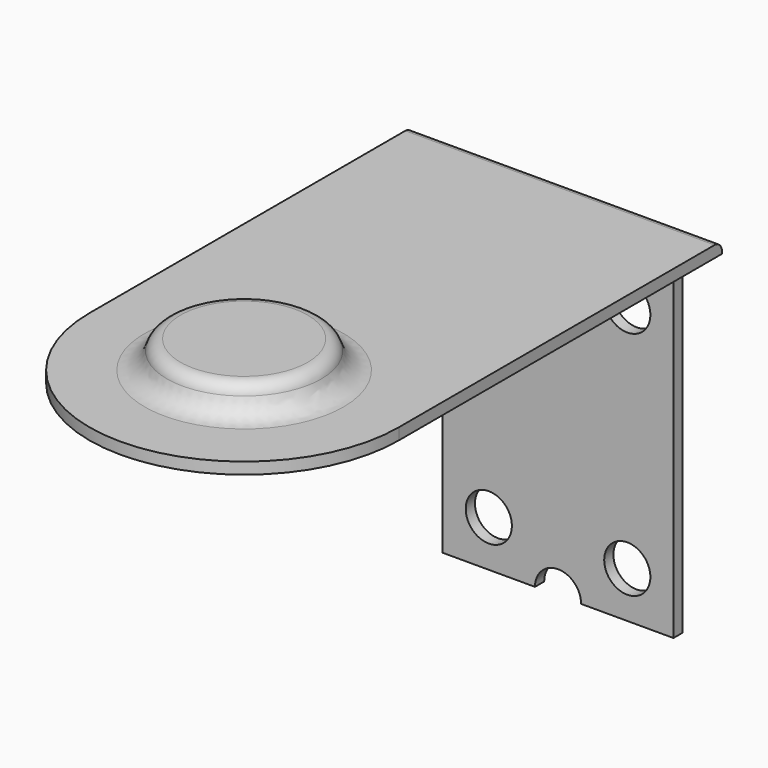
from build123d import *

# Parameters (mm, degrees)
PAD_DEPTH       = 0.25
SKETCH001_R     = 1.675
POCKET_DEPTH    = 5
SKETCH002_R     = 1.68
PAD001_DEPTH    = 0.85
SKETCH003_R     = 1.5
POCKET001_DEPTH = 0.75
FILLET_R        = 0.3
FILLET001_R     = 0.5
FILLET002_R     = 0.5
SKETCH004_W     = 0.25
SKETCH004_H     = 7.75
PAD002_DEPTH    = 2.5
SKETCH005_R     = 0.5
POCKET002_DEPTH = 5
FILLET003_R     = 0.2
PAD003_DEPTH    = 0.25


with BuildPart() as part:
    # Sketch → Pad (new body)
    with BuildSketch(Plane.XY):
        with BuildLine():
            ThreePointArc((-3.35, 0), (0, -3.35), (3.35, 0))
            Line((3.35, 8.75), (3.35, 0))
            Line((-3.35, 8.75), (3.35, 8.75))
            Line((-3.35, 0), (-3.35, 8.75))
        make_face()
    extrude(amount=PAD_DEPTH)

    # Sketch001 → Pocket (cut)
    with BuildSketch(Plane.XY):
        Circle(SKETCH001_R)
    extrude(amount=POCKET_DEPTH, mode=Mode.SUBTRACT)

    # Sketch002 (on DatumPlane) → Pad001 (join)
    with BuildSketch(Plane.XY.offset(0.85)):
        Circle(SKETCH002_R)
    extrude(amount=-PAD001_DEPTH)

    # Sketch003 → Pocket001 (cut)
    with BuildSketch(Plane.XY):
        Circle(SKETCH003_R)
    extrude(amount=POCKET001_DEPTH, mode=Mode.SUBTRACT)

    # Fillet
    fillet_edges = [part.edges().sort_by_distance(p)[0] for p in [
        (-1.68, 0, 0.85),
    ]]
    fillet(fillet_edges, radius=FILLET_R)

    # Fillet001
    fillet001_edges = [part.edges().sort_by_distance(p)[0] for p in [
        (-1.68, 0, 0.25),
    ]]
    fillet(fillet001_edges, radius=FILLET001_R)

    # Fillet002
    fillet002_edges = [part.edges().sort_by_distance(p)[0] for p in [
        (-1.5, 0, 0.75),
    ]]
    fillet(fillet002_edges, radius=FILLET002_R)

    # Sketch004 → Pad002 (join, symmetric)
    with BuildSketch(Plane.YZ):
        with Locations((8.625, -3.625)):
            Rectangle(SKETCH004_W, SKETCH004_H)
    extrude(amount=PAD002_DEPTH, both=True)

    # Sketch005 (on DatumPlane) → Pocket002 (cut)
    with BuildSketch(Plane.XZ.offset(-8.75)):
        with Locations((-1.5, -1.5)):
            Circle(SKETCH005_R)
        with Locations((-1.5, -6.5)):
            Circle(SKETCH005_R)
        with BuildLine():
            ThreePointArc((0, -7), (-0.353553, -7.146447), (-0.5, -7.5))
            Line((-0.5, -7.5), (0, -7.5))
            Line((0, -7), (0, -7.5))
        make_face()
    pocket002 = extrude(amount=POCKET002_DEPTH, mode=Mode.SUBTRACT)

    # Mirrored: Pocket002 across Sketch005 V_Axis
    add(pocket002.mirror(Plane(origin=(0, 8.75, 0), x_dir=(0, -1, 0), z_dir=(1, 0, 0))), mode=Mode.SUBTRACT)

    # Fillet003
    fillet003_edges = [part.edges().sort_by_distance(p)[0] for p in [
        (0, 8.75, 0.25),
    ]]
    fillet(fillet003_edges, radius=FILLET003_R)

    # Sketch006 (on DatumPlane) → Pad003 (join)
    with BuildSketch(Plane.XZ.offset(-8.75)):
        Polygon((-2.433517, -0.657248), (-3.325729, 0), (-2.433517, 0), align=None)
    pad003 = extrude(amount=PAD003_DEPTH)

    # Mirrored001: Pad003 across Sketch006 V_Axis
    add(pad003.mirror(Plane(origin=(0, 8.75, 0), x_dir=(0, -1, 0), z_dir=(1, 0, 0))))


solid = part.part
